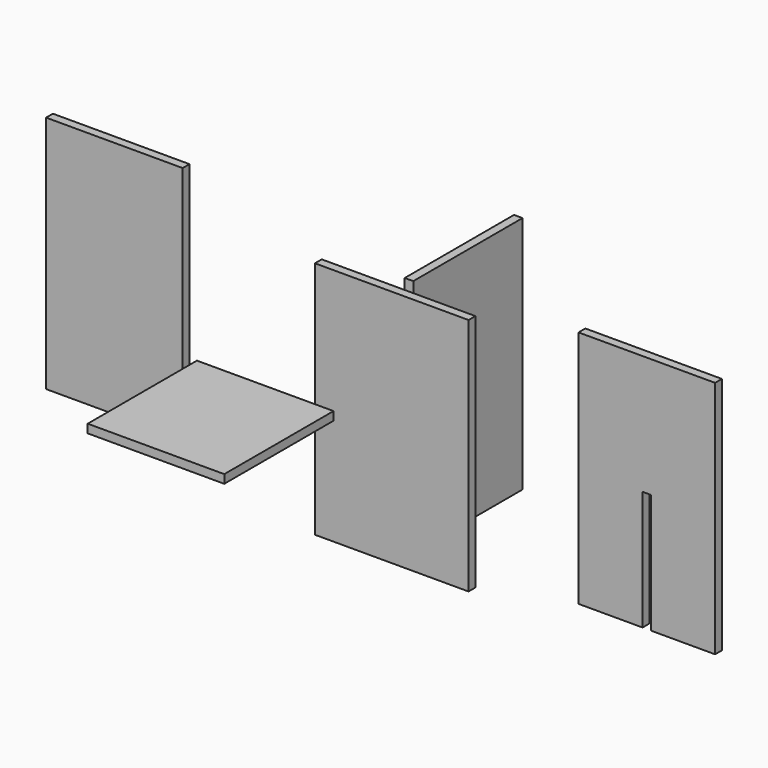
from build123d import *

# Parameters (mm, degrees)
F0_W      = 57.15
F0_H      = 88.9
F1_DEPTH  = 3.175
F4_W      = 50.8
F4_H      = 88.9
F5_DEPTH  = 3.175
F6_W      = 50.8
F6_H      = 50.8
F7_DEPTH  = 3.175
F8_W      = 50.8
F8_H      = 88.9
F9_DEPTH  = 3.175
F11_DEPTH = 3.175


with BuildPart() as f1:
    # F0 (on Front) → F1 (new body)
    with BuildSketch(Plane.XZ):
        Rectangle(F0_W, F0_H)
    extrude(amount=F1_DEPTH)


with BuildPart() as f2_1:
    # F2: copy of F1
    add(f1.part)


with BuildPart() as f5:
    # F4 (on Right) → F5 (new body)
    with BuildSketch(Plane.YZ):
        with Locations((28.274211, 2.020991)):
            Rectangle(F4_W, F4_H)
    extrude(amount=F5_DEPTH)


with BuildPart() as f7:
    # F6 (on Top) → F7 (new body)
    with BuildSketch(Plane.XY):
        with Locations((-41.208157, -35.878065)):
            Rectangle(F6_W, F6_H)
    extrude(amount=F7_DEPTH)


with BuildPart() as f9:
    # F8 (on Front) → F9 (new body)
    with BuildSketch(Plane.XZ):
        with Locations((-103.17079, 15.179067)):
            Rectangle(F8_W, F8_H)
    extrude(amount=F9_DEPTH)


with BuildPart() as f11:
    # F10 (on Front) → F11 (new body)
    with BuildSketch(Plane.XZ):
        Polygon((120.282365, 53.70251), (69.482365, 53.70251), (69.482365, -35.19749), (93.294865, -35.19749), (93.294865, 9.25251), (96.469865, 9.25251), (96.469865, -35.19749), (120.282365, -35.19749), align=None)
    extrude(amount=F11_DEPTH)


solid = Compound([f1.part, f5.part, f7.part, f9.part, f11.part])
